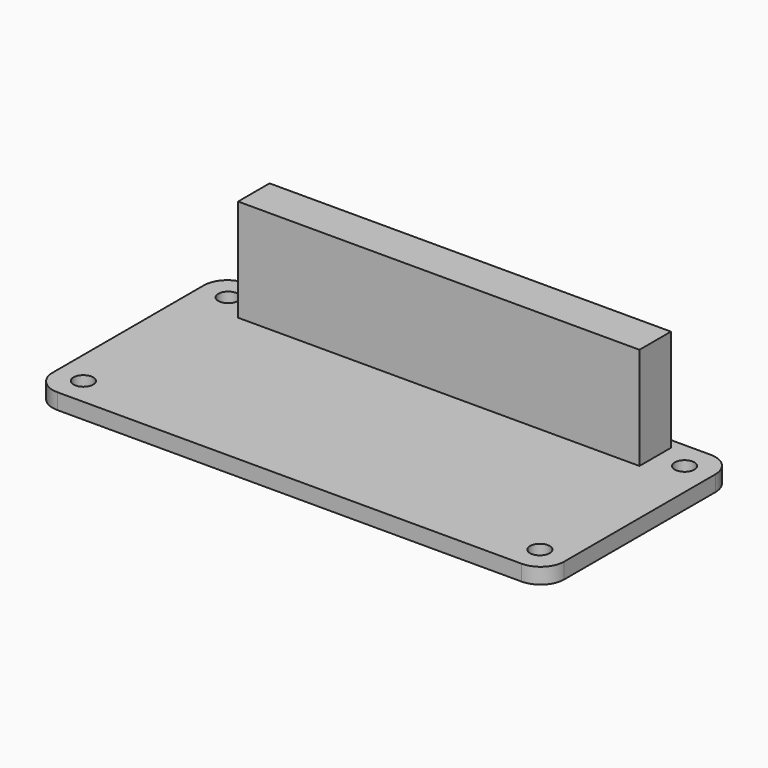
from build123d import *

# Parameters (mm, degrees)
F0_R     = 1.25
F0_W     = 51
F0_H     = 5
F1_DEPTH = 2
F2_DEPTH = 15


with BuildPart() as f1:
    # F0 (on Top) → F1 (new body)
    with BuildSketch(Plane.XY):
        with BuildLine():
            ThreePointArc((31.101435, 12), (30.222755, 14.12132), (28.101435, 15))
            Line((28.101435, 15), (-30.898565, 15))
            ThreePointArc((-30.898565, 15), (-33.019886, 14.12132), (-33.898565, 12))
            Line((-33.898565, 12), (-33.898565, -12))
            ThreePointArc((-33.898565, -12), (-33.019886, -14.12132), (-30.898565, -15))
            Line((-30.898565, -15), (28.101435, -15))
            ThreePointArc((28.101435, -15), (30.222755, -14.12132), (31.101435, -12))
            Line((31.101435, -12), (31.101435, 12))
        make_face()
        with Locations((-30.398565, -11.5)):
            Circle(F0_R, mode=Mode.SUBTRACT)
        with Locations((27.601435, -11.5)):
            Circle(F0_R, mode=Mode.SUBTRACT)
        with Locations((-30.398565, 11.5)):
            Circle(F0_R, mode=Mode.SUBTRACT)
        with Locations((-1.398565, 11.2)):
            Rectangle(F0_W, F0_H, mode=Mode.SUBTRACT)
        with Locations((27.601435, 11.5)):
            Circle(F0_R, mode=Mode.SUBTRACT)
        with Locations((-1.398565, 11.2)):
            Rectangle(F0_W, F0_H)
    extrude(amount=F1_DEPTH)

    # F0 (on Top) → F2 (join)
    with BuildSketch(Plane.XY):
        with Locations((-1.398565, 11.2)):
            Rectangle(F0_W, F0_H)
    extrude(amount=F2_DEPTH)


solid = f1.part
